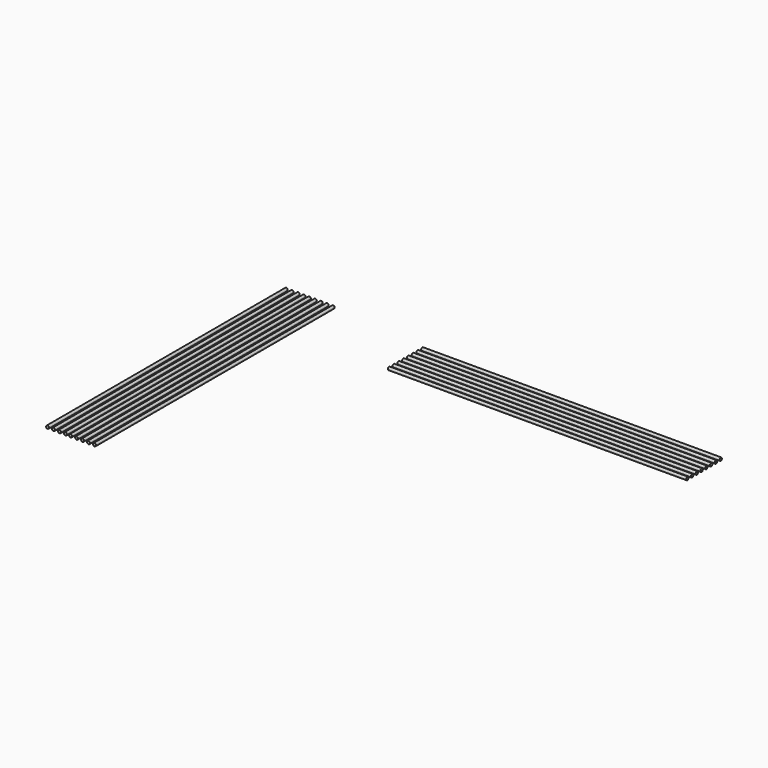
from build123d import *

# Parameters (mm, degrees)
F1_R     = 0.5
F2_DEPTH = 100
F3_R     = 0.5
F4_DEPTH = 100


with BuildPart() as f2:
    # F0 (on Front) + F1 (on Front) → F2 (new body)
    with BuildSketch(Plane.XZ):
        with BuildLine():
            ThreePointArc((-46.729733, 0.202703), (-47.729732, 0.203776), (-46.729738, 0.200557))
            ThreePointArc((-46.729738, 0.200557), (-46.729734, 0.20163), (-46.729733, 0.202703))
        make_face()
        with BuildLine():
            Line((-45.729729, 0.196265), (-44.729738, 0.191973))
            ThreePointArc((-44.729738, 0.191973), (-44.729734, 0.193046), (-44.729733, 0.194119))
            ThreePointArc((-44.729733, 0.194119), (-45.22866, 0.694118), (-45.729729, 0.196265))
        make_face()
        with BuildLine():
            ThreePointArc((-45.729729, 0.196265), (-45.231879, -0.305876), (-44.729738, 0.191973))
            Line((-44.729738, 0.191973), (-45.729729, 0.196265))
        make_face()
        with BuildLine():
            ThreePointArc((-43.729729, 0.187681), (-43.231879, -0.31446), (-42.729738, 0.183389))
            Line((-42.729738, 0.183389), (-43.729729, 0.187681))
        make_face()
        with BuildLine():
            Line((-43.729729, 0.187681), (-42.729738, 0.183389))
            ThreePointArc((-42.729738, 0.183389), (-42.729734, 0.184462), (-42.729733, 0.185535))
            ThreePointArc((-42.729733, 0.185535), (-43.22866, 0.685534), (-43.729729, 0.187681))
        make_face()
        with BuildLine():
            Line((-41.729729, 0.179098), (-40.729738, 0.174806))
            ThreePointArc((-40.729738, 0.174806), (-40.729734, 0.175879), (-40.729733, 0.176952))
            ThreePointArc((-40.729733, 0.176952), (-41.22866, 0.67695), (-41.729729, 0.179098))
        make_face()
        with BuildLine():
            ThreePointArc((-41.729729, 0.179098), (-41.231879, -0.323044), (-40.729738, 0.174806))
            Line((-40.729738, 0.174806), (-41.729729, 0.179098))
        make_face()
        with BuildLine():
            Line((-39.991835, 0.171639), (-38.991844, 0.167347))
            ThreePointArc((-38.991844, 0.167347), (-38.991841, 0.16842), (-38.991839, 0.169493))
            ThreePointArc((-38.991839, 0.169493), (-39.490766, 0.669492), (-39.991835, 0.171639))
        make_face()
        with BuildLine():
            ThreePointArc((-39.991835, 0.171639), (-39.493985, -0.330503), (-38.991844, 0.167347))
            Line((-38.991844, 0.167347), (-39.991835, 0.171639))
        make_face()
    with BuildSketch(Plane.XZ):
        with Locations((-35.491839, 0.152325)):
            Circle(F1_R)
        with Locations((-33.491839, 0.143742)):
            Circle(F1_R)
        with Locations((-37.491839, 0.160909)):
            Circle(F1_R)
        with Locations((-31.491839, 0.143742)):
            Circle(F1_R)
    extrude(amount=F2_DEPTH)


with BuildPart() as f4:
    # F3 (on Right) → F4 (new body)
    with BuildSketch(Plane.YZ):
        with Locations((-16, -1.215745)):
            Circle(F3_R)
        with Locations((-14, -1.215745)):
            Circle(F3_R)
        with Locations((-12, -1.215745)):
            Circle(F3_R)
        with Locations((-10, -1.215745)):
            Circle(F3_R)
        with Locations((-8, -1.215745)):
            Circle(F3_R)
        with Locations((-6, -1.215745)):
            Circle(F3_R)
        with Locations((-4, -1.215745)):
            Circle(F3_R)
        with Locations((-2, -1.215745)):
            Circle(F3_R)
    extrude(amount=F4_DEPTH)


solid = Compound([f2.part, f4.part])
